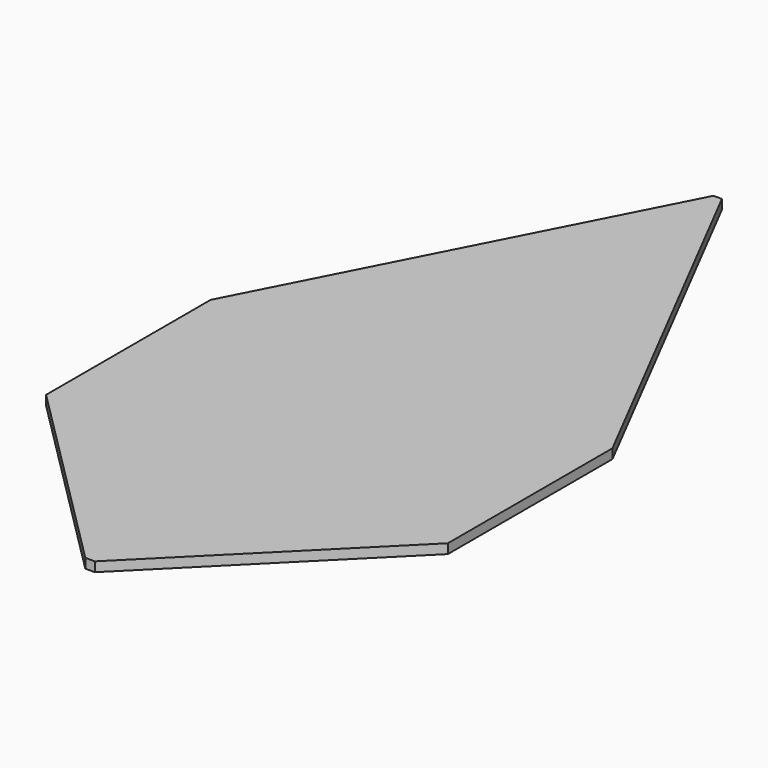
from build123d import *

# Parameters (mm, degrees)
F0_W       = 106.68
F0_H       = 208.28
F1_DEPTH   = 2.54
F2_SIZE    = 52.07
F3_SIZE2   = 52.2153074575
F3_SIZE    = 101.6
F3_2_SIZE2 = 52.2153074575
F3_2_SIZE  = 101.6


with BuildPart() as f1:
    # F0 (on Top) → F1 (new body)
    with BuildSketch(Plane.XY):
        Rectangle(F0_W, F0_H)
    extrude(amount=F1_DEPTH)

    # F2
    f2_edges = [f1.edges().sort_by_distance(p)[0] for p in [
        (-53.34, -104.14, 1.27),
        (53.34, -104.14, 1.27),
    ]]
    chamfer(f2_edges, length=F2_SIZE)

    # F3
    f3_edges = [f1.edges().sort_by_distance(p)[0] for p in [
        (-53.34, 104.14, 1.27),
    ]]
    f3_side = f1.faces().sort_by_distance((-53.34, 26.035, 1.27))[0]
    chamfer(f3_edges, length=F3_SIZE, length2=F3_SIZE2, reference=f3_side)

    # F3#2
    f3_2_edges = [f1.edges().sort_by_distance(p)[0] for p in [
        (53.34, 104.14, 1.27),
    ]]
    f3_2_side = f1.faces().sort_by_distance((53.34, 26.035, 1.27))[0]
    chamfer(f3_2_edges, length=F3_2_SIZE, length2=F3_2_SIZE2, reference=f3_2_side)


solid = f1.part
